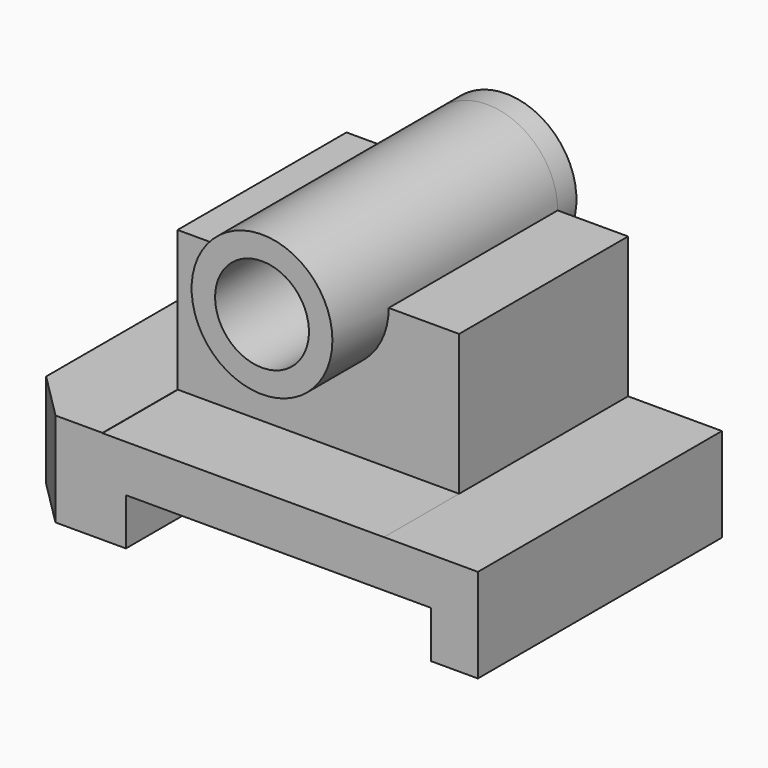
from build123d import *

# Parameters (mm, degrees)
F1_DEPTH = 65
F2_DEPTH = 45
F3_DEPTH = 60
F5_DEPTH = 25
F6_DEPTH = 5
F7_DEPTH = 5


with BuildPart() as f1:
    # F0 (on Front) → F1 (new body)
    with BuildSketch(Plane.XZ):
        Polygon((40, -35), (50, -35), (50, -15), (30, -14.9856810346), (30, -15), (-30, -15), (-30, -14.9427241385), (-50, -14.9284051731), (-50, -35), (-25, -35), (-25, -25), (40, -25), align=None)
    extrude(amount=F1_DEPTH)

    # F4 (on face) → F5 (cut)
    with BuildSketch(Plane(origin=(-0.0107135894, 0, -14.9641949162), x_dir=(0.9999997437, 0, -0.0007159481), z_dir=(0.0007159481, 0, 0.9999997437))):
        Polygon((-39.9892940965, -65), (-49.9892992224, -55), (-49.9892992224, -65), align=None)
    extrude(amount=-F5_DEPTH, mode=Mode.SUBTRACT)



with BuildPart() as f2:
    # F0 (on Front) → F2 (new body)
    with BuildSketch(Plane.XZ):
        with BuildLine():
            Line((-30, -14.9427241385), (30, -14.9856810346))
            Line((30, -14.9856810346), (30, 15))
            Line((30, 15), (15, 15))
            ThreePointArc((15, 15), (0, 0), (-15, 15))
            Line((-15, 15), (-30, 15))
            Line((-30, 15), (-30, -14.9427241385))
        make_face()
    extrude(amount=F2_DEPTH)

    # F0 (on Front) → F3 (join)
    with BuildSketch(Plane.XZ):
        with BuildLine():
            ThreePointArc((-15, 15), (0, 0), (15, 15))
            Line((15, 15), (10, 15))
            ThreePointArc((10, 15), (0, 5), (-10, 15))
            Line((-10, 15), (-15, 15))
        make_face()
        with BuildLine():
            Line((10, 15), (15, 15))
            ThreePointArc((15, 15), (0, 30), (-15, 15))
            Line((-15, 15), (-10, 15))
            ThreePointArc((-10, 15), (0, 25), (10, 15))
        make_face()
    extrude(amount=F3_DEPTH)

    # F0 (on Front) → F6 (join)
    with BuildSketch(Plane.XZ):
        with BuildLine():
            Line((10, 15), (15, 15))
            ThreePointArc((15, 15), (0, 30), (-15, 15))
            Line((-15, 15), (-10, 15))
            ThreePointArc((-10, 15), (0, 25), (10, 15))
        make_face()
        with BuildLine():
            ThreePointArc((-15, 15), (0, 0), (15, 15))
            Line((15, 15), (10, 15))
            ThreePointArc((10, 15), (0, 5), (-10, 15))
            Line((-10, 15), (-15, 15))
        make_face()
    extrude(amount=-F6_DEPTH)


with BuildPart() as f1_1:
    add(f1.part)

    add(f2.part)  # F7 merges F2
    # F0 (on Front) → F7 (join)
    with BuildSketch(Plane.XZ):
        with BuildLine():
            Line((-30, -14.9427241385), (30, -14.9856810346))
            Line((30, -14.9856810346), (30, 15))
            Line((30, 15), (15, 15))
            ThreePointArc((15, 15), (0, 0), (-15, 15))
            Line((-15, 15), (-30, 15))
            Line((-30, 15), (-30, -14.9427241385))
        make_face()
    extrude(amount=F7_DEPTH)


solid = f1_1.part
